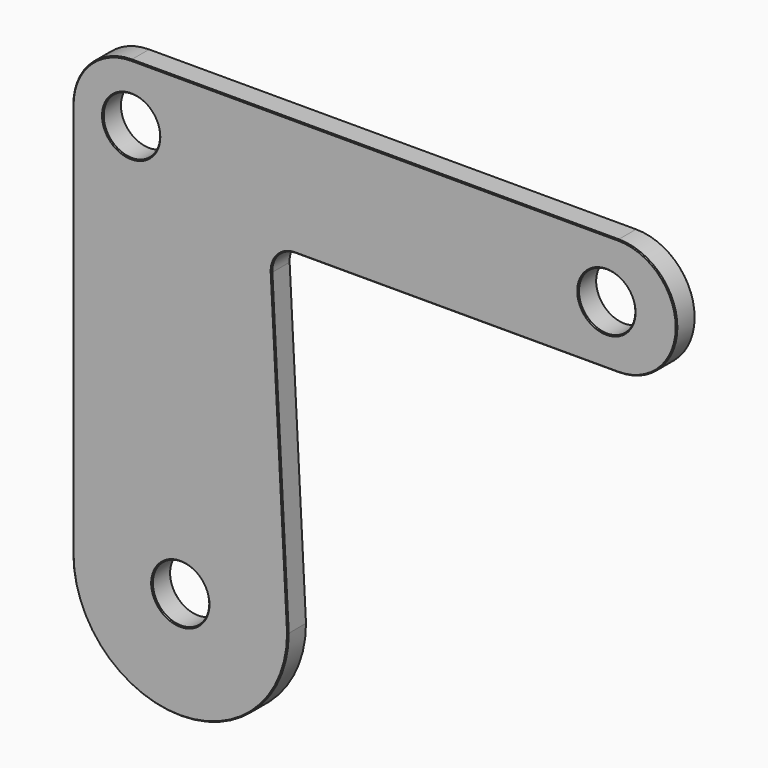
from build123d import *

# Parameters (mm, degrees)
F1_DEPTH      = 2.5
F2_R          = 6.025
F3_DEPTH      = 25
F3_DEPTH_BACK = 25
F4_SIZE       = 0.2


with BuildPart() as f1:
    # F0 (on Front) → F1 (new body, symmetric)
    with BuildSketch(Plane.XZ):
        with BuildLine():
            Line((-64.5, 47.5), (-64.5, -37))
            ThreePointArc((-64.5, -37), (-41.5000010456, -60), (-18.5, -37.0000020911))
            Line((-18.5, -37.0000020911), (-21.9976072653, 29.7383202188))
            ThreePointArc((-21.9976072653, 29.7383202188), (-20.6313314466, 33.4417728785), (-17.0044595916, 35))
            Line((-17.0044595916, 35), (52, 35))
            ThreePointArc((52, 35), (64.5, 47.5), (52, 60))
            Line((52, 60), (-52, 60))
            ThreePointArc((-52, 60), (-60.8388347648, 56.3388347648), (-64.5, 47.5))
        make_face()
    extrude(amount=F1_DEPTH, both=True)

    # F2 (on Front) → F3 (cut, two sides)
    with BuildSketch(Plane.XZ) as f3_sk:
        with Locations((-41.5, -37)):
            Circle(F2_R)
        with Locations((-52, 47.5)):
            Circle(F2_R)
        with Locations((49.5, 47.5)):
            Circle(F2_R)
    extrude(amount=-F3_DEPTH, mode=Mode.SUBTRACT)
    extrude(f3_sk.sketch, amount=F3_DEPTH_BACK, mode=Mode.SUBTRACT)

    # F4
    f4_edges = [f1.edges().sort_by_distance(p)[0] for p in [
        (-20.631331, -2.5, 33.441773),
        (-20.248804, -2.5, -3.630841),
        (17.49777, -2.5, 35),
        (-41.500001, -2.5, -60),
        (64.5, -2.5, 47.5),
        (-64.5, -2.5, 5.25),
        (0, -2.5, 60),
        (-60.838835, -2.5, 56.338835),
        (-47.525, -2.5, -37),
        (-58.025, -2.5, 47.5),
        (43.475, -2.5, 47.5),
        (-20.631331, 2.5, 33.441773),
        (-20.248804, 2.5, -3.630841),
        (17.49777, 2.5, 35),
        (-41.500001, 2.5, -60),
        (64.5, 2.5, 47.5),
        (-64.5, 2.5, 5.25),
        (0, 2.5, 60),
        (-60.838835, 2.5, 56.338835),
        (-47.525, 2.5, -37),
        (-58.025, 2.5, 47.5),
        (43.475, 2.5, 47.5),
    ]]
    chamfer(f4_edges, length=F4_SIZE)


solid = f1.part
